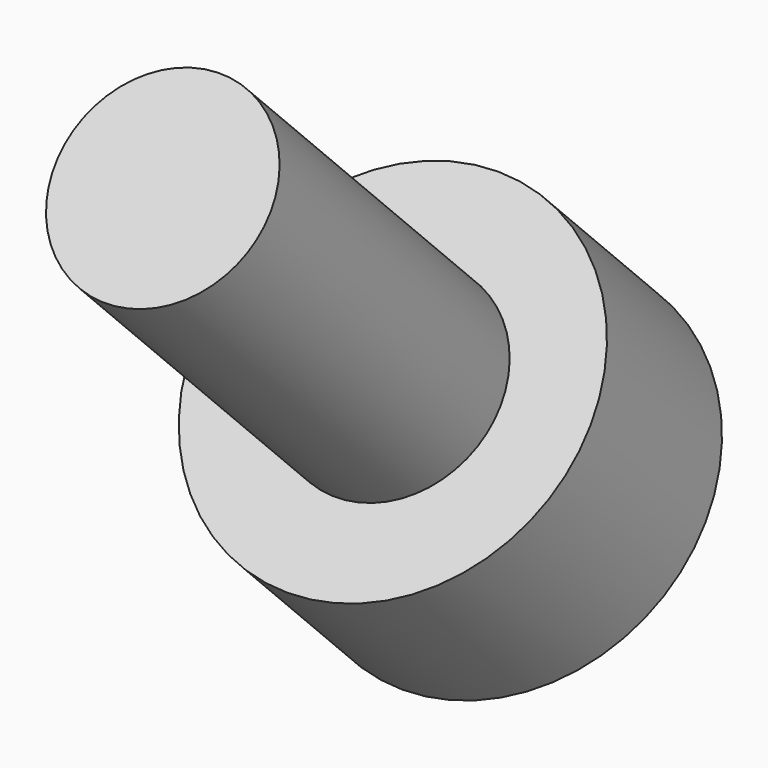
from build123d import *

# Parameters (mm, degrees)
SKETCH034_R             = 2.75
PAD019_DEPTH            = 3
SKETCH001_R             = 1.5
PAD020_DEPTH            = 6
POCKET016_DEPTH         = 4
BODY009_PLACEMENT_ANGLE = 225


with BuildPart() as part:
    # Sketch034 → Pad019 (new body)
    with BuildSketch(Plane.XY):
        Circle(SKETCH034_R)
    extrude(amount=PAD019_DEPTH)

    # Sketch001 (on Face2 of Pad019) → Pad020 (join)
    with BuildSketch(Plane(origin=(0, 0, 0), x_dir=(1, 0, 0), z_dir=(0, 0, -1))):
        Circle(SKETCH001_R)
    extrude(amount=PAD020_DEPTH)

    # Sketch035 (on DatumPlane) → Pocket016 (cut)
    with BuildSketch(Plane.XY.offset(3)):
        Polygon((0.721688, -1.25), (1.443376, 0), (0.721688, 1.25), (-0.721688, 1.25), (-1.443376, 0), (-0.721688, -1.25), align=None)
    extrude(amount=-POCKET016_DEPTH, mode=Mode.SUBTRACT)


with BuildPart() as part_1:
    # Body009 placement: moved
    add(part.part.moved(Location((-6.5, -61.871843, 6.010408))).rotate(Axis((-6.5, -61.871843, 6.010408), (1, 0, 0)), BODY009_PLACEMENT_ANGLE))


solid = part_1.part
